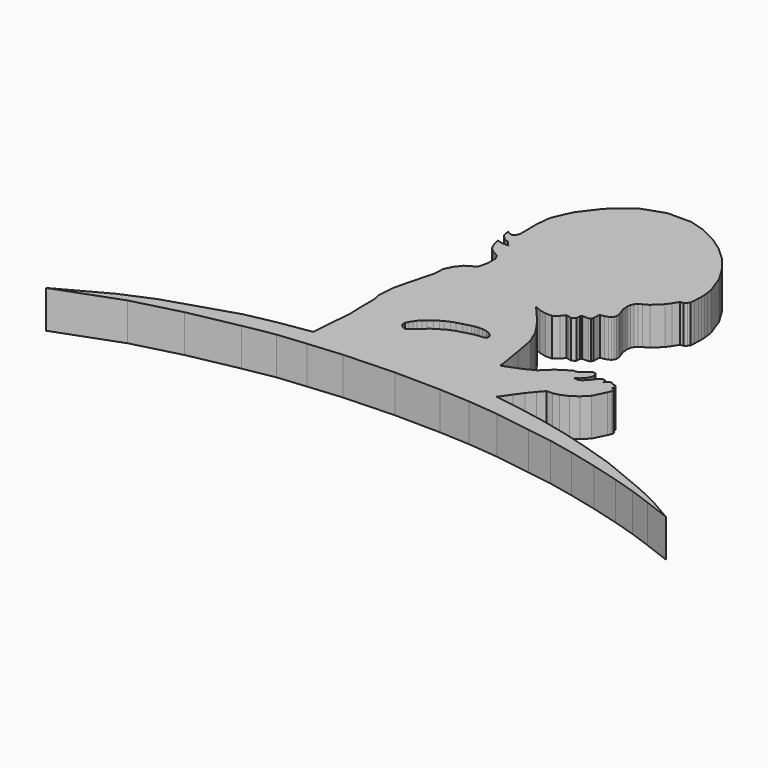
from build123d import *

# Parameters (mm, degrees)
F1_DEPTH = 6
F2_R     = 10.141565
F3_DEPTH = 3.25


with BuildPart() as f1:
    # F0 (on Top) → F1 (new body)
    with BuildSketch(Plane.XY):
        Polygon((-48.76272, -25.753524), (-38.749291, -22.056886), (-31.233012, -20.104708), (-23.443356, -18.54092), (-18.543187, -17.664484), (-14.082985, -17.224686), (-8.736808, -16.740807), (-0.711974, -16.433358), (6.513451, -16.525593), (11.381293, -16.766243), (16.184823, -17.231077), (21.840594, -18.083272), (25.869363, -18.703051), (29.898129, -19.555246), (34.353017, -20.639858), (38.730424, -21.840678), (42.331987, -22.95118), (45.67381, -24.156365), (49.864789, -25.745019), (46.168652, -23.613232), (42.91446, -22.041064), (39.227457, -20.514234), (35.173503, -18.855883), (30.566735, -17.381794), (26.374576, -16.184096), (22.044214, -15.17066), (16.930701, -14.203289), (13.185691, -13.658596), (13.596571, -13.165565), (14.473116, -11.905598), (15.377052, -10.645631), (16.280988, -9.550008), (17.141816, -8.56583), (18.073633, -8.56583), (19.005449, -8.341516), (20.213362, -7.84112), (21.265972, -7.081901), (22.284071, -6.063857), (23.250398, -4.114043), (23.473322, -3.547027), (23.570945, -3.357881), (23.525264, -3.206147), (23.444228, -3.037598), (23.302496, -2.946119), (23.023623, -2.93689), (23.005323, -2.804305), (23.078456, -2.676321), (23.147017, -2.530048), (23.156304, -2.376035), (22.879584, -2.037841), (22.449133, -2.037841), (22.203162, -1.791882), (22.022387, -1.726148), (21.866953, -1.748959), (21.711218, -1.791882), (21.624667, -1.872319), (21.537816, -1.972869), (21.418962, -2.064265), (21.30011, -2.187664), (21.18126, -2.30649), (21.158388, -2.224193), (21.158388, -2.183048), (21.121794, -1.991025), (21.048633, -1.835566), (20.973303, -1.730392), (20.512106, -1.730392), (19.989415, -2.099331), (19.651205, -2.621994), (19.220754, -3.144658), (18.790301, -3.544341), (18.359852, -3.7903), (17.827207, -3.747104), (17.672034, -3.688867), (17.814259, -3.591931), (17.960146, -3.482851), (18.256732, -3.269699), (18.54433, -2.990933), (18.696327, -2.830194), (18.838542, -2.603952), (18.980755, -2.371245), (19.084177, -2.151455), (19.129407, -1.88639), (19.159261, -1.515178), (18.882541, -1.023259), (18.298359, -1.023259), (17.621933, -1.576668), (16.79178, -2.191565), (16.26909, -2.191565), (14.301315, -3.452106), (12.763989, -4.927861), (11.021095, -5.814598), (8.309424, -6.860474), (8.309424, -6.279431), (7.689614, -2.444554), (7.108542, 0.73181), (6.182114, 2.85138), (5.380621, 4.092337), (4.708401, 5.023056), (3.725926, 6.238159), (2.769306, 7.375703), (1.916104, 8.332274), (2.898578, 7.918621), (3.984473, 7.660088), (5.044512, 7.660088), (5.768441, 8.254714), (6.311388, 8.9269), (6.693632, 8.843126), (7.211344, 8.703793), (7.733129, 9.095112), (7.783328, 9.772745), (7.938304, 9.937376), (8.124454, 9.964709), (8.950571, 9.964709), (9.237057, 10.082575), (9.428849, 10.399507), (9.428849, 11.312583), (9.511396, 11.572732), (10.151465, 11.654881), (10.689764, 11.834343), (10.983554, 12.029547), (11.211522, 12.269141), (11.321875, 12.596306), (11.294443, 13.135715), (11.211522, 13.399616), (10.820204, 14.530092), (10.800676, 14.89116), (10.727525, 15.494575), (10.820204, 16.008409), (11.017222, 16.424684), (11.385764, 16.831878), (11.844826, 17.103302), (12.654974, 17.549606), (14.021499, 18.867327), (14.555857, 19.626186), (15.095198, 20.477874), (15.615447, 20.583801), (15.973678, 20.868309), (16.225074, 21.207722), (16.283133, 21.889804), (16.312162, 22.717003), (16.331982, 23.206389), (16.312162, 23.907059), (16.225074, 24.57466), (16.120093, 25.358321), (15.046394, 28.335395), (13.631062, 30.67801), (11.874103, 32.874213), (9.921924, 34.679979), (7.774526, 36.192914), (5.187888, 37.461835), (2.845273, 38.190527), (-1.059085, 38.190527), (-4.499263, 36.993061), (-6.416593, 35.565329), (-7.985516, 34.12659), (-10.232211, 31.182641), (-10.886496, 29.790483), (-11.637914, 28.047565), (-11.879907, 25.703619), (-11.833995, 22.367889), (-12.038505, 21.869857), (-12.455175, 21.53965), (-12.917699, 21.663031), (-13.383154, 21.947416), (-13.214394, 20.84945), (-12.478102, 20.137687), (-11.702342, 19.775741), (-11.055877, 19.05185), (-12.012645, 19.05185), (-12.935832, 19.276606), (-12.633253, 18.198692), (-12.193657, 17.190416), (-11.483389, 16.59731), (-10.458283, 16.036056), (-10.069267, 15.241261), (-10.069267, 13.796251), (-10.415899, 12.264614), (-11.975846, 11.336657), (-12.836882, 10.260588), (-13.421156, 9.000047), (-13.483645, 7.44387), (-14.21637, 4.698518), (-14.620243, 3.127771), (-15.112186, 1.098608), (-15.265919, -1.422473), (-15.017516, -2.745429), (-15.017516, -5.484488), (-14.928632, -7.548512), (-15.174604, -10.500021), (-15.455766, -14.249476), (-20.585986, -15.050266), (-25.206815, -16.002474), (-35.943926, -19.398906), (-40.847992, -21.471233), align=None)
        Polygon((1.987712, -2.180184), (0.718532, -2.302195), (-0.501833, -2.619424), (-1.89305, -3.00986), (-2.991379, -3.473502), (-3.894449, -4.034754), (-4.675483, -4.522799), (-5.383295, -5.157257), (-6.188736, -5.864922), (-6.896548, -6.474978), (-7.242655, -6.450521), (-7.557949, -6.287398), (-7.797138, -6.091679), (-7.960221, -5.939457), (-8.079816, -5.656787), (-8.079816, -5.200237), (-7.840627, -4.721983), (-7.557949, -4.298092), (-7.253527, -3.852463), (-6.840383, -3.428599), (-6.351133, -2.961267), (-5.720544, -2.504836), (-5.089956, -2.102757), (-4.589834, -1.820228), (-3.872267, -1.47252), (-3.165573, -1.222644), (-2.339284, -1.005406), (-1.697823, -0.83161), (-1.099851, -0.668677), (-0.697579, -0.614407), (-0.383371, -0.552869), (-0.052102, -0.524664), (0.498866, -0.520831), (1.182271, -0.61844), (1.792454, -0.886865), (2.158563, -1.179692), (2.402636, -1.448116), (2.402636, -2.03377), align=None, mode=Mode.SUBTRACT)
    extrude(amount=F1_DEPTH)

    # F2 (on face) → F3 (cut)
    with BuildSketch(Plane(origin=(0, 0, 0), x_dir=(1, 0, 0), z_dir=(0, 0, -1))):
        with Locations((0.950981, -24.396172)):
            Circle(F2_R)
    extrude(amount=-F3_DEPTH, mode=Mode.SUBTRACT)


solid = f1.part
